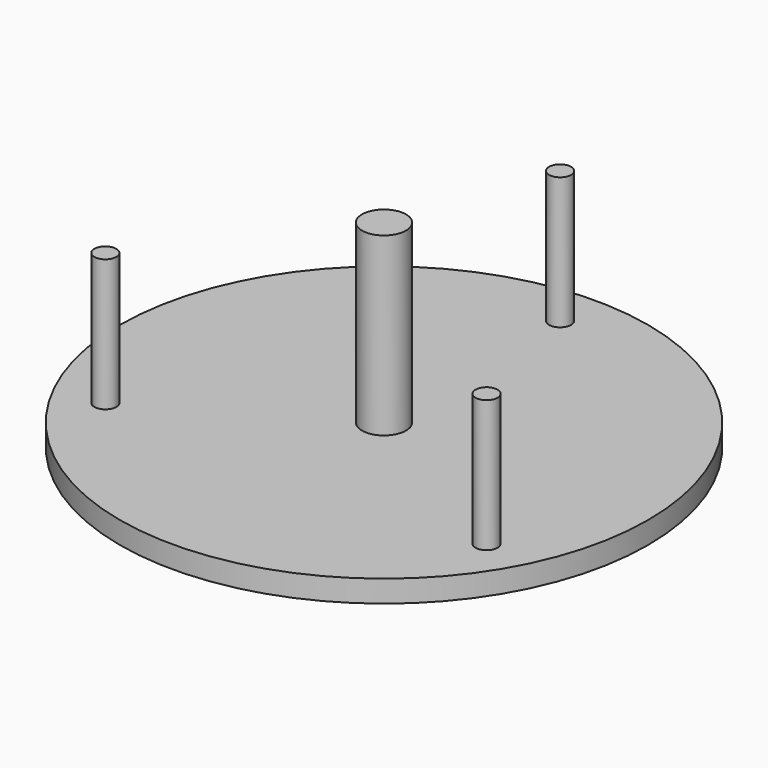
from build123d import *

# Parameters (mm, degrees)
F0_R     = 152.4
F1_DEPTH = 12.7
F2_R     = 12.7
F3_DEPTH = 101.6
F4_R     = 6.35
F5_DEPTH = 76.2
F6_COUNT = 3


with BuildPart() as f1:
    # F0 (on Top) → F1 (new body)
    with BuildSketch(Plane.XY):
        Circle(F0_R)
    extrude(amount=F1_DEPTH)

    # F2 (on face) → F3 (join)
    with BuildSketch(Plane.XY.offset(12.7)):
        Circle(F2_R)
    extrude(amount=F3_DEPTH)

    # F4 (on face) → F5 (join)
    with BuildSketch(Plane.XY.offset(12.7)):
        with Locations((0, 127)):
            Circle(F4_R)
    extrude(amount=F5_DEPTH)

    # F6: F1 ×3 about axis
    f6_axis = Axis((0, 0, 12.7), (0, 0, -1))


with BuildPart() as f1_1:
    add(f1.part)
    for i in range(1, F6_COUNT):
        add(f1.part.rotate(f6_axis, i * 360 / F6_COUNT))


solid = f1_1.part
